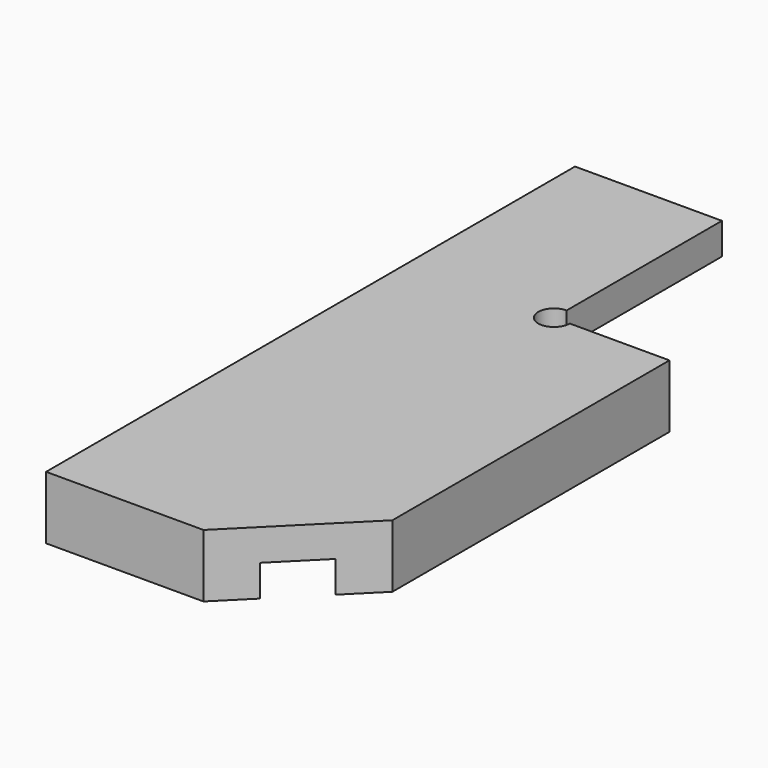
from build123d import *

# Parameters (mm, degrees)
F1_DEPTH = 3
F3_DEPTH = 3


with BuildPart() as f1:
    # F0 (on Top) → F1 (new body)
    with BuildSketch(Plane.XY):
        with BuildLine():
            Line((0, 63), (0, 0))
            Line((0, 0), (15, 0))
            Line((15, 0), (25, 10))
            Line((25, 10), (25, 43))
            Line((25, 43), (15.5, 43))
            ThreePointArc((15.5, 43), (12.93934, 41.93934), (14, 44.5))
            Line((14, 44.5), (14, 63))
            Line((14, 63), (0, 63))
        make_face()
    extrude(amount=F1_DEPTH)

    # F2 (on face) → F3 (join)
    with BuildSketch(Plane(origin=(0, 0, 0), x_dir=(1, 0, 0), z_dir=(0, 0, -1))):
        Polygon((15, 0), (0, 0), (0, -3), (18, -3), align=None)
        Polygon((25, -43), (25, -10), (22, -7), (22, -43), align=None)
    extrude(amount=F3_DEPTH)


solid = f1.part
